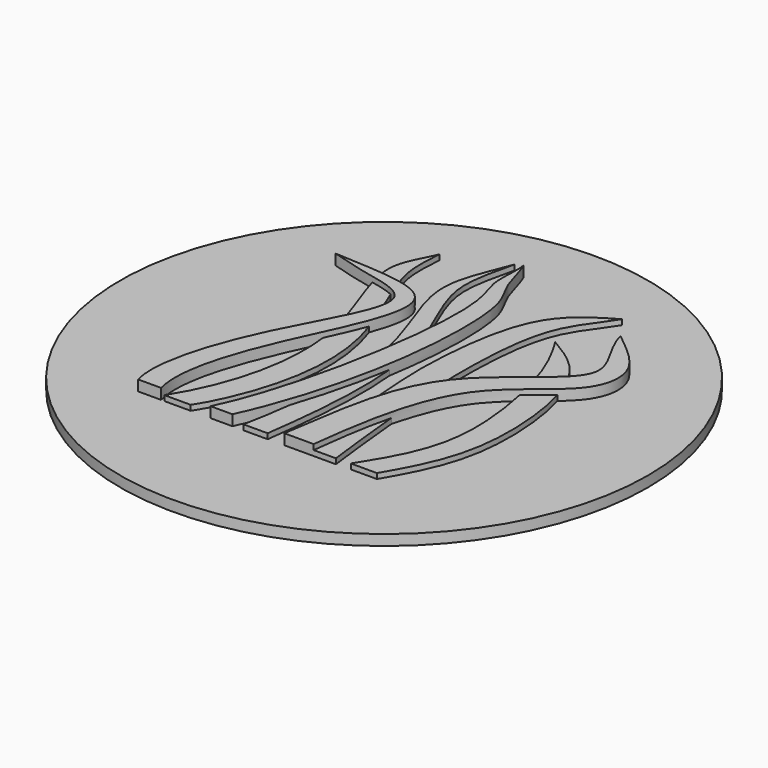
from build123d import *

# Parameters (mm, degrees)
F0_R     = 12.7
F1_DEPTH = 0.508
F3_DEPTH = 0.254
F5_DEPTH = 0.508


with BuildPart() as f1:
    # F0 (on Top) → F1 (new body)
    with BuildSketch(Plane.XY):
        Circle(F0_R)
    extrude(amount=F1_DEPTH)

    # F2 (on face) → F3 (join)
    with BuildSketch(Plane.XY.offset(0.508)):
        with BuildLine():
            add(Edge.make_bspline(
                [(-5.2719195373, -6.6272993572), (-3.872885348, -4.4520186415), (-2.5298502561, 0.9650592988), (-5.9058838048, 6.5752139258), (-4.5831003215, 8.154364543), (-4.3570301495, 8.7928688154)],
                knots=[0, 0, 0, 0, 0.4179619906, 0.7780595065, 1, 1, 1, 1], degree=3))
            Line((-5.2719195373, -6.6272993572), (-4.0028356016, -6.6272993572))
            add(Edge.make_bspline(
                [(-4.3570301495, 8.7928688154), (-4.3630830199, 8.2015305899), (-4.701189825, 6.5376528689), (-1.8259658088, 1.5640057397), (-2.3905143583, -3.5194742263), (-3.5781967992, -5.9880424971), (-4.0028356016, -6.6272993572)],
                knots=[0, 0, 0, 0, 0.1825926655, 0.4807773924, 0.7711829196, 1, 1, 1, 1], degree=3))
        make_face()
        with BuildLine():
            add(Edge.make_bspline(
                [(-1.4674423728, -6.6272993572), (-0.985412575, -4.2708046996), (-0.3047524984, 1.6551847707), (-3.3244814043, 6.4983146753), (-1.9689916046, 8.9186349109), (-1.6383680049, 9.8954876885)],
                knots=[0, 0, 0, 0, 0.4096446995, 0.7391384852, 1, 1, 1, 1], degree=3))
            Line((-1.4674423728, -6.6272993572), (-0.3014976363, -6.6272993572))
            add(Edge.make_bspline(
                [(-1.6383680049, 9.8954876885), (-1.8216079863, 8.9885465162), (-2.6263573518, 6.6378597232), (0.6950065559, 1.8916256627), (0.0386558078, -4.1519002624), (-0.3014976363, -6.6272993572)],
                knots=[0, 0, 0, 0, 0.2492106512, 0.5835240674, 1, 1, 1, 1], degree=3))
        make_face()
        with BuildLine():
            add(Edge.make_bspline(
                [(1.5145773169, -6.616194034), (1.1940212274, -4.0103671508), (0.9028928209, -0.0208407961), (0.8898208261, 2.1618108922), (1.3851336525, 7.1476663528), (3.3459200004, 8.4043957007), (4.2933290824, 8.9336298406)],
                knots=[0, 0, 0, 0, 0.3209564765, 0.5098357086, 0.7758792989, 1, 1, 1, 1], degree=3))
            Line((1.5145773169, -6.616194034), (2.9728896815, -6.616194034))
            add(Edge.make_bspline(
                [(4.2933290824, 8.9336298406), (3.8668567127, 8.2232002927), (2.3793092086, 6.7312967676), (2.2393404131, 1.9967002594), (2.2980436455, -0.0082060923), (2.650704599, -4.0547391266), (2.9728896815, -6.616194034)],
                knots=[0, 0, 0, 0, 0.2151032104, 0.4837713001, 0.6704514493, 1, 1, 1, 1], degree=3))
        make_face()
        with BuildLine():
            add(Edge.make_bspline(
                [(3.6762850359, -6.5927449614), (4.4529559961, -5.3500510351), (6.1337830712, -2.6606835884), (4.8419578202, 3.6774605455), (3.881428191, 5.2842156234), (3.5053598695, 5.9132953174)],
                knots=[0, 0, 0, 0, 0.3432646267, 0.7428737626, 1, 1, 1, 1], degree=3))
            Line((3.6762850359, -6.5927449614), (4.9297381192, -6.5927449614))
            add(Edge.make_bspline(
                [(3.5053598695, 5.9132953174), (4.3408423507, 5.4205586593), (6.3854935809, 4.2146990071), (7.1501570127, -2.7125867988), (5.6241977101, -5.3791842869), (4.9297381192, -6.5927449614)],
                knots=[0, 0, 0, 0, 0.2735219035, 0.6693819548, 1, 1, 1, 1], degree=3))
        make_face()
    extrude(amount=F3_DEPTH)

    # F4 (on face) → F5 (join)
    with BuildSketch(Plane.XY.offset(0.508)):
        with BuildLine():
            add(Edge.make_bspline(
                [(-3.0433814673, -6.6272993572), (-2.1974935521, -4.8954167791), (-0.7776956197, 0.3100416193), (-0.3047343678, 6.3705590458), (-1.1598802084, 7.864508231), (-0.9353071374, 9.1567048857), (-1.0167807341, 9.6578514203)],
                knots=[0, 0, 0, 0, 0.3530424061, 0.6693999559, 0.8321688952, 1, 1, 1, 1], degree=3))
            Line((-3.0433814673, -6.6272993572), (-1.9989393186, -6.6272993572))
            add(Edge.make_bspline(
                [(-1.0167807341, 9.6578514203), (-0.8274793809, 9.267679275), (-0.5704484079, 7.9047687046), (0.5786247682, 6.5770303039), (0.3381062433, -0.2240374611), (-1.2534634047, -5.0483344452), (-1.9989393186, -6.6272993572)],
                knots=[0, 0, 0, 0, 0.1661393285, 0.3315269787, 0.6614020522, 1, 1, 1, 1], degree=3))
        make_face()
        with BuildLine():
            Line((-6.532096304, -6.6272993572), (-5.430161953, -6.6272993572))
            add(Edge.make_bspline(
                [(-5.430161953, -6.6272993572), (-5.8193618589, -5.1392590948), (-4.5838347325, -0.934647992), (-0.6400624928, 6.0857024172), (-5.3690237828, 5.8807217463), (-7.1521208894, 6.0094190813)],
                knots=[0, 0, 0, 0, 0.3455066031, 0.6928830307, 1, 1, 1, 1], degree=3))
            add(Edge.make_bspline(
                [(-7.1521208894, 6.0094190813), (-6.537143432, 5.8253534111), (-5.3149301405, 5.4610139581), (-1.96159371, 4.9138935505), (-5.4984276356, -0.388003649), (-6.953280415, -5.1366083694), (-6.532096304, -6.6272993572)],
                knots=[0, 0, 0, 0, 0.1845584506, 0.3756847895, 0.6718512012, 1, 1, 1, 1], degree=3))
        make_face()
        with BuildLine():
            add(Edge.make_bspline(
                [(0.4904243611, -6.616194034), (0.9347396671, -3.8834413618), (1.3214012856, 1.1088862182), (7.9716341777, 4.2409808853), (5.694396863, 6.2979037533), (5.4111583158, 7.4577131309)],
                knots=[0, 0, 0, 0, 0.4053429182, 0.7431097734, 1, 1, 1, 1], degree=3))
            Line((0.4904243611, -6.616194034), (1.9042369677, -6.616194034))
            add(Edge.make_bspline(
                [(5.4111583158, 7.4577131309), (5.8530113035, 7.0649375169), (7.7652855935, 5.7780451849), (7.3603779172, 2.9487465846), (2.997731971, 0.8093188922), (2.2115939418, -3.994967914), (1.9042369677, -6.616194034)],
                knots=[0, 0, 0, 0, 0.2046237296, 0.3943725591, 0.6568571536, 1, 1, 1, 1], degree=3))
        make_face()
    extrude(amount=F5_DEPTH)


solid = f1.part
